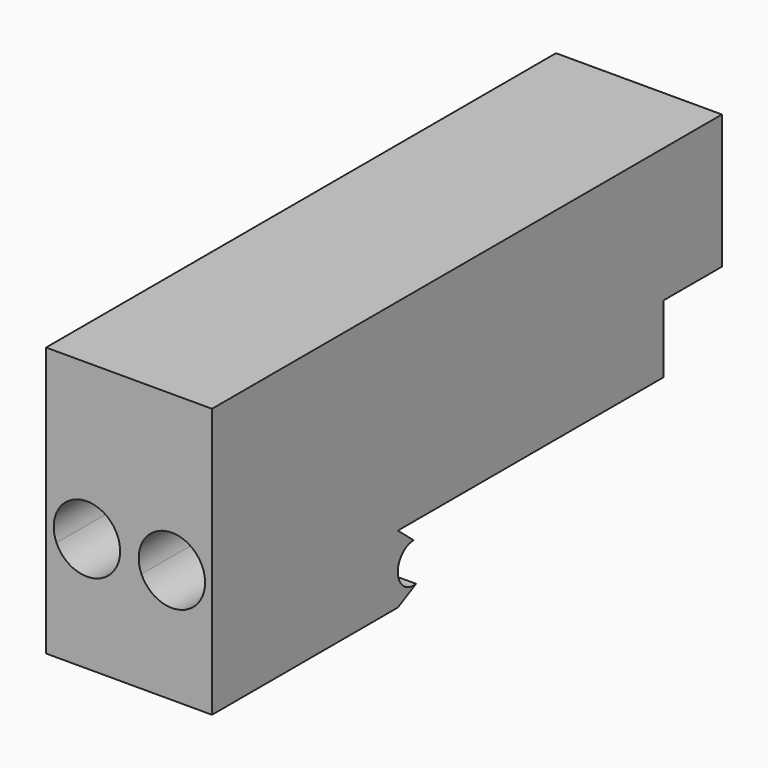
from build123d import *

# Parameters (mm, degrees)
F1_DEPTH = 25
F3_DEPTH = 71.0393057594
F4_DEPTH = 25


with BuildPart() as f1:
    # F0 (on Right) → F1 (new body)
    with BuildSketch(Plane.YZ):
        Polygon((0, 10.2), (0, 0), (10, 0), (60, 0), (60, 10.2), align=None)
        Polygon((10, 0), (0, 0), (0, -10.2), (10, -10.2), (10, -5.4790303111), align=None)
        with BuildLine():
            Line((12.9808050988, -2.4790917191), (10, 0))
            Line((10, 0), (10, -5.4790303111))
            ThreePointArc((10, -5.4790303111), (10.8719040549, -3.3645072802), (12.9808050988, -2.4790917191))
        make_face()
        Polygon((0, 30.3931459785), (0, 10.2), (60, 10.2), (71.0383057594, 10.2), (71.0383057594, 30.3931459785), align=None)
        with BuildLine():
            ThreePointArc((13.4366949561, -8.4470763881), (11.0391436652, -7.7495021639), (10, -5.4790303111))
            Line((10, -5.4790303111), (10, -10.2))
            Line((10, -10.2), (13.4366949561, -8.4470763881))
        make_face()
    extrude(amount=F1_DEPTH)

    # F2 (on face) → F3 (cut, through all)
    with BuildSketch(Plane.XZ):
        with BuildLine():
            ThreePointArc((10.1552814897, 10), (6.1552813277, 12.0000002161), (2.1552811656, 10))
            Line((2.1552811656, 10), (10.1552814897, 10))
        make_face()
        with BuildLine():
            ThreePointArc((2.1552811656, 10), (1.1888790402, 7.5786610142), (1.572705727, 5))
            Line((1.572705727, 5), (10.7378569283, 5))
            ThreePointArc((10.7378569283, 5), (11.0498128682, 5.9784518822), (11.1552813277, 7.0000002161))
            ThreePointArc((11.1552813277, 7.0000002161), (10.8986978606, 8.581138918), (10.1552814897, 10))
            Line((10.1552814897, 10), (2.1552811656, 10))
        make_face()
        with BuildLine():
            Line((10.7378569283, 5), (1.572705727, 5))
            ThreePointArc((1.572705727, 5), (6.1552813277, 2.0000002161), (10.7378569283, 5))
        make_face()
        with BuildLine():
            Line((14.9572591335, 10), (22.9572591335, 10))
            ThreePointArc((22.9572591335, 10), (18.9572591335, 12), (14.9572591335, 10))
        make_face()
        with BuildLine():
            Line((14.3746834385, 5), (23.5398348284, 5))
            ThreePointArc((23.5398348284, 5), (23.8517906981, 5.9784517816), (23.9572591335, 7))
            ThreePointArc((23.9572591335, 7), (23.7006756237, 8.5811388301), (22.9572591335, 10))
            Line((22.9572591335, 10), (14.9572591335, 10))
            ThreePointArc((14.9572591335, 10), (13.9908568753, 7.5786610494), (14.3746834385, 5))
        make_face()
        with BuildLine():
            ThreePointArc((14.3746834385, 5), (18.9572591335, 2), (23.5398348284, 5))
            Line((23.5398348284, 5), (14.3746834385, 5))
        make_face()
    extrude(amount=-F3_DEPTH, mode=Mode.SUBTRACT)

    # F4 (add): a face of the model
    f4_faces = [f1.faces().sort_by_distance(p)[0] for p in [
        (12.4896952291, 0, 10.6636485804),
    ]]
    extrude(f4_faces, amount=F4_DEPTH)


solid = f1.part
